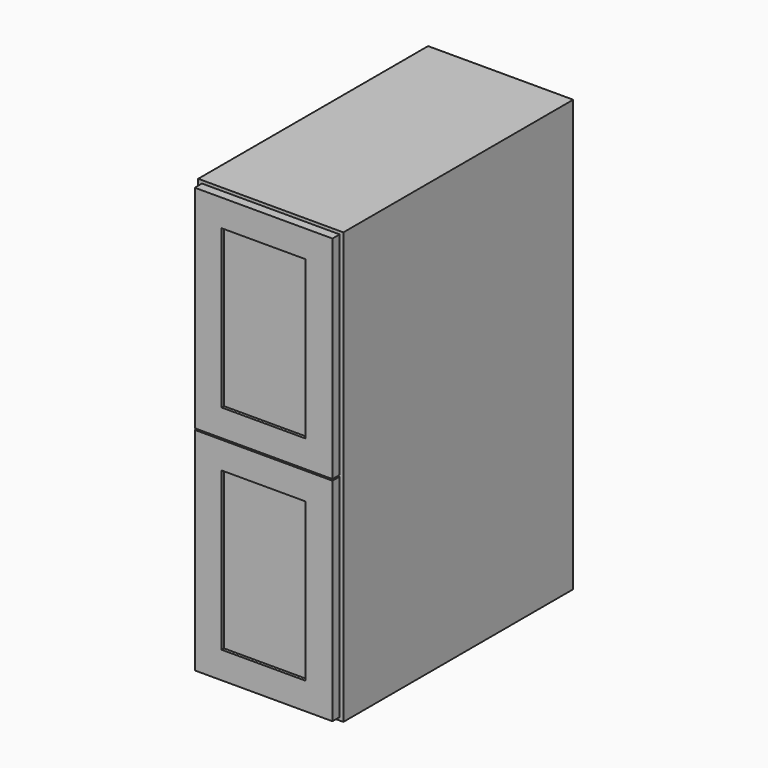
from build123d import *

# Parameters (mm, degrees)
F0_W     = 307.975
F0_H     = 609.6
F1_DEPTH = 914.4
F2_T     = -12.7
F3_W     = 28.575
F3_H     = 19.05
F3_W_2   = 4.7625
F4_DEPTH = 19.05
F3_W_3   = 225.425
F3_H_2   = 395.2875
F3_W_4   = 177.8
F3_H_3   = 334.9625
F5_DEPTH = 19.05
F6_W     = 7.9375
F6_H     = 334.9625
F7_DEPTH = 177.8


with BuildPart() as f1:
    # F0 (on Top) → F1 (new body)
    with BuildSketch(Plane.XY):
        Rectangle(F0_W, F0_H)
    extrude(amount=F1_DEPTH)

    # F2
    f2_openings = [f1.faces().sort_by_distance(p)[0] for p in [
        (0, -304.8, 457.2),
    ]]
    offset(amount=F2_T, openings=f2_openings)

    # F3 (on face) → F4 (join)
    with BuildSketch(Plane.XZ.offset(304.8)):
        Polygon((-141.2875, 901.7), (-141.2875, 477.8375), (-112.7125, 477.8375), (-112.7125, 873.125), (112.7125, 873.125), (112.7125, 477.8375), (141.2875, 477.8375), (141.2875, 901.7), align=None)
        Polygon((-153.9875, 914.4), (-153.9875, 477.8375), (-146.05, 477.8375), (-146.05, 908.05), (146.05, 908.05), (146.05, 477.8375), (153.9875, 477.8375), (153.9875, 914.4), align=None)
        Polygon((-112.7125, 436.5625), (-141.2875, 436.5625), (-141.2875, 12.7), (141.2875, 12.7), (141.2875, 436.5625), (112.7125, 436.5625), (112.7125, 41.275), (-112.7125, 41.275), align=None)
        Polygon((-146.05, 436.5625), (-153.9875, 436.5625), (-153.9875, 0), (153.9875, 0), (153.9875, 436.5625), (146.05, 436.5625), (146.05, 6.35), (-146.05, 6.35), align=None)
        Polygon((-141.2875, 436.5625), (-146.05, 436.5625), (-146.05, 6.35), (146.05, 6.35), (146.05, 436.5625), (141.2875, 436.5625), (141.2875, 12.7), (-141.2875, 12.7), align=None)
        with Locations((-127, 446.0875)):
            Rectangle(F3_W, F3_H)
        Polygon((-153.9875, 477.8375), (-153.9875, 436.5625), (-146.05, 436.5625), (-146.05, 455.6125), (-141.2875, 455.6125), (-141.2875, 458.7875), (-146.05, 458.7875), (-146.05, 477.8375), align=None)
        with Locations((-143.66875, 446.0875)):
            Rectangle(F3_W_2, F3_H)
        with Locations((-127, 468.3125)):
            Rectangle(F3_W, F3_H)
        with Locations((127, 468.3125)):
            Rectangle(F3_W, F3_H)
        with Locations((127, 446.0875)):
            Rectangle(F3_W, F3_H)
        Polygon((146.05, 436.5625), (153.9875, 436.5625), (153.9875, 477.8375), (146.05, 477.8375), (146.05, 458.7875), (141.2875, 458.7875), (141.2875, 455.6125), (146.05, 455.6125), align=None)
        with Locations((143.66875, 446.0875)):
            Rectangle(F3_W_2, F3_H)
    extrude(amount=-F4_DEPTH)

    # F3 (on face) → F5 (join)
    with BuildSketch(Plane.XZ.offset(304.8)):
        Polygon((-112.7125, 436.5625), (-141.2875, 436.5625), (-141.2875, 12.7), (141.2875, 12.7), (141.2875, 436.5625), (112.7125, 436.5625), (112.7125, 41.275), (-112.7125, 41.275), align=None)
        Polygon((-141.2875, 436.5625), (-146.05, 436.5625), (-146.05, 6.35), (146.05, 6.35), (146.05, 436.5625), (141.2875, 436.5625), (141.2875, 12.7), (-141.2875, 12.7), align=None)
        with Locations((0, 238.91875)):
            Rectangle(F3_W_3, F3_H_2)
        with Locations((0, 230.98125)):
            Rectangle(F3_W_4, F3_H_3, mode=Mode.SUBTRACT)
        with Locations((0, 446.0875)):
            Rectangle(F3_W_3, F3_H)
        with Locations((-127, 446.0875)):
            Rectangle(F3_W, F3_H)
        with Locations((127, 446.0875)):
            Rectangle(F3_W, F3_H)
        with Locations((143.66875, 446.0875)):
            Rectangle(F3_W_2, F3_H)
        with Locations((-143.66875, 446.0875)):
            Rectangle(F3_W_2, F3_H)
        Polygon((-141.2875, 901.7), (-141.2875, 477.8375), (-112.7125, 477.8375), (-112.7125, 873.125), (112.7125, 873.125), (112.7125, 477.8375), (141.2875, 477.8375), (141.2875, 901.7), align=None)
        with Locations((0, 675.48125)):
            Rectangle(F3_W_3, F3_H_2)
        with Locations((0, 683.41875)):
            Rectangle(F3_W_4, F3_H_3, mode=Mode.SUBTRACT)
        with Locations((-127, 468.3125)):
            Rectangle(F3_W, F3_H)
        with Locations((0, 468.3125)):
            Rectangle(F3_W_3, F3_H)
        with Locations((127, 468.3125)):
            Rectangle(F3_W, F3_H)
        with Locations((143.66875, 468.3125)):
            Rectangle(F3_W_2, F3_H)
        Polygon((-146.05, 908.05), (-146.05, 477.8375), (-141.2875, 477.8375), (-141.2875, 901.7), (141.2875, 901.7), (141.2875, 477.8375), (146.05, 477.8375), (146.05, 908.05), align=None)
        with Locations((-143.66875, 468.3125)):
            Rectangle(F3_W_2, F3_H)
    extrude(amount=F5_DEPTH)

    # F6 (on face) → F7 (join, through all)
    with BuildSketch(Plane(origin=(88.9, 0, 0), x_dir=(0, -1, 0), z_dir=(-1, 0, 0))):
        with Locations((313.53125, 230.98125)):
            Rectangle(F6_W, F6_H)
        with Locations((313.53125, 683.41875)):
            Rectangle(F6_W, F6_H)
    extrude(amount=F7_DEPTH)


solid = f1.part
